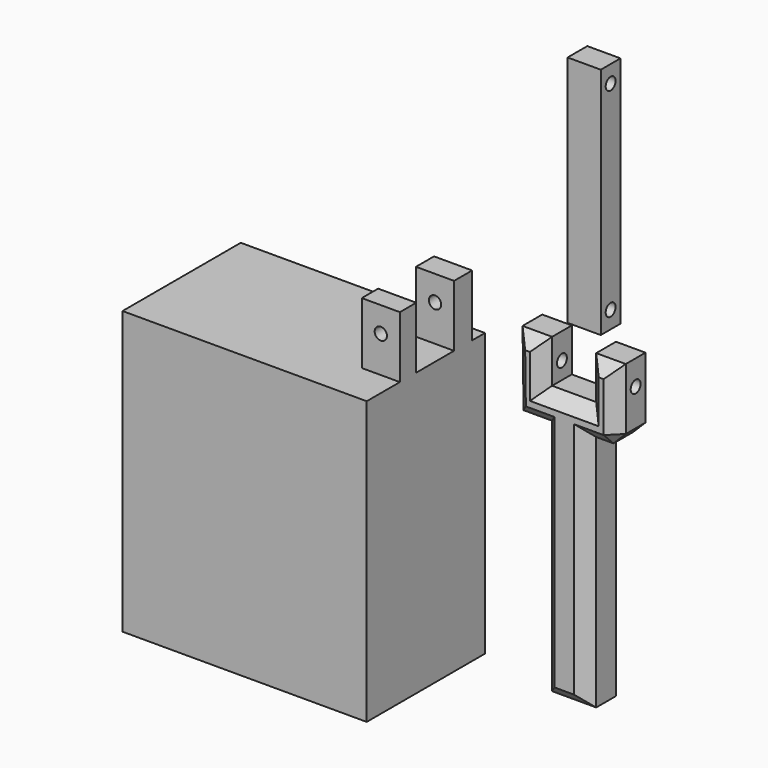
from build123d import *

# Parameters (mm, degrees)
F1_DEPTH  = 20
F2_SIZE   = 5
F4_D      = 5
F5_W      = 13.4684653021
F5_H      = 94.8523897678
F6_DEPTH  = 10
F8_D      = 5
F9_W      = 99.1508290172
F9_H      = 114.6252378821
F10_DEPTH = 60
F11_W     = 15.4744051397
F11_H     = 9.1700186022
F11_H_2   = 8.310329169
F12_DEPTH = 25
F14_D     = 5


with BuildPart() as f1:
    # F0 (on Front) → F1 (new body)
    with BuildSketch(Plane.XZ):
        Polygon((0, 17.4999950348), (-12, 17.4999950348), (-11.5833330324, -12.5000049652), (0, -12.5000049652), (0, -109.1666778008), (17.9166687731, -109.1666778008), (17.9166687731, -12.5000049652), (29.9166687731, -12.5000049652), (29.9166687731, 17.4999950348), (17.9166687731, 17.4999950348), (17.9166687731, 0), (0, 0), align=None)
    extrude(amount=F1_DEPTH)

    # F2
    f2_edges = [f1.edges().sort_by_distance(p)[0] for p in [
        (29.916669, 0, 2.499995),
        (23.916669, 0, 17.499995),
        (17.916669, 0, 8.749998),
        (8.958334, 0, 0),
        (0, 0, 8.749998),
        (-6, 0, 17.499995),
        (-11.791667, 0, 2.499995),
        (-5.791667, 0, -12.500005),
        (0, 0, -60.833341),
        (8.958334, 0, -109.166678),
        (17.916669, 0, -60.833341),
        (23.916669, 0, -12.500005),
        (29.916669, -10, -12.500005),
        (29.916669, -20, 2.499995),
        (23.916669, -20, 17.499995),
        (17.916669, -20, 8.749998),
        (8.958334, -20, 0),
        (0, -20, 8.749998),
        (-6, -20, 17.499995),
        (-11.791667, -20, 2.499995),
        (-5.791667, -20, -12.500005),
        (0, -20, -60.833341),
        (8.958334, -20, -109.166678),
        (17.916669, -20, -60.833341),
        (23.916669, -20, -12.500005),
    ]]
    chamfer(f2_edges, length=F2_SIZE)

    # F4 (through all)
    with Locations(Plane(origin=(-11.7546768429, 0, -0.1632595185), x_dir=(0, -1, 0), z_dir=(-0.9999035632, 0, -0.0138875595))):
        with Locations((10, 6.9619570859)):
            Hole(F4_D / 2)


with BuildPart() as f6:
    # F5 (on Front) → F6 (new body)
    with BuildSketch(Plane.XZ):
        with Locations((9.0267385822, 68.6318641528)):
            Rectangle(F5_W, F5_H)
    extrude(amount=F6_DEPTH)

    # F8 (through all)
    with Locations(Plane(origin=(2.2925059311, 0, 0), x_dir=(0, -1, 0), z_dir=(-1, 0, 0))):
        with Locations((5, 109.0372651815), (5, 28.2264668494)):
            Hole(F8_D / 2)


with BuildPart() as f10:
    # F9 (on Front) → F10 (new body)
    with BuildSketch(Plane.XZ):
        with Locations((-88.8345576823, -57.3126189411)):
            Rectangle(F9_W, F9_H)
    extrude(amount=F10_DEPTH)

    # F11 (on face) → F12 (join)
    with BuildSketch(Plane.XY):
        with Locations((-46.9963457435, -11.0868343618)):
            Rectangle(F11_W, F11_H)
        with Locations((-46.9963457435, -39.0267390758)):
            Rectangle(F11_W, F11_H_2)
    extrude(amount=F12_DEPTH)

    # F14 (through all)
    with Locations(Plane.XZ.offset(43.1819036603)):
        with Locations((-46.9963457435, 14.7925047204)):
            Hole(F14_D / 2)


solid = Compound([f1.part, f6.part, f10.part])
